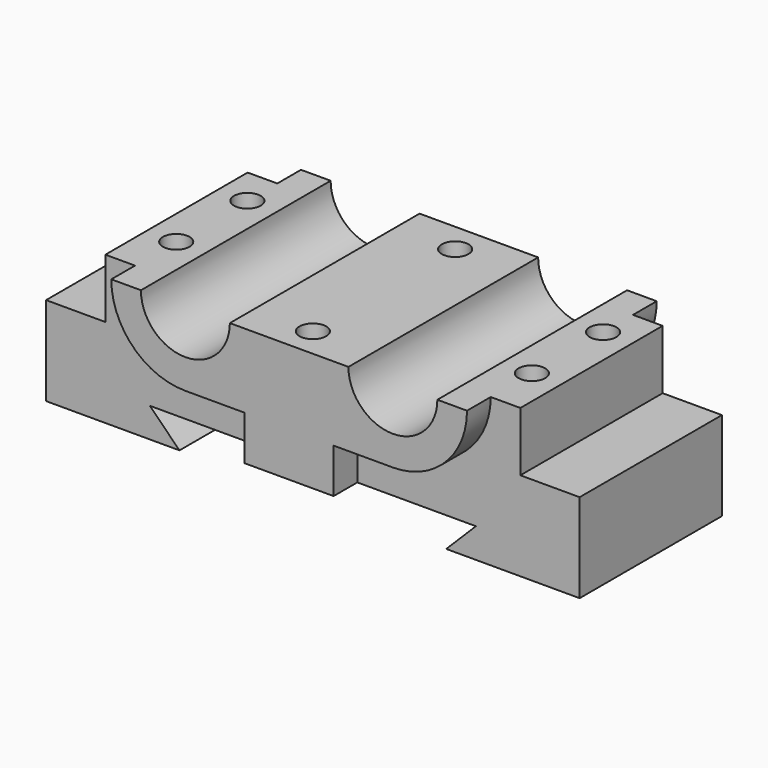
from build123d import *

# Parameters (mm, degrees)
F1_DEPTH = 15
F3_DEPTH = 5
F6_D     = 4.5
F6_DEPTH = 15
F6_TIP   = 1.3519363928


with BuildPart() as f1:
    # F0 (on Front) → F1 (new body, symmetric)
    with BuildSketch(Plane.XZ):
        with BuildLine():
            Line((-45, 10), (-45, -5))
            Line((-45, -5), (-22.5, -5))
            Line((-22.5, -5), (-27.5, 0))
            Line((-27.5, 0), (27.5, 0))
            Line((27.5, 0), (22.5, -5))
            Line((22.5, -5), (45, -5))
            Line((45, -5), (45, 10))
            Line((45, 10), (35, 10))
            Line((35, 10), (35, 20))
            Line((35, 20), (25, 20))
            ThreePointArc((25, 20), (17.5, 12.5), (10, 20))
            Line((10, 20), (-10, 20))
            ThreePointArc((-10, 20), (-17.5, 12.5), (-25, 20))
            Line((-25, 20), (-35, 20))
            Line((-35, 20), (-35, 10))
            Line((-35, 10), (-45, 10))
        make_face()
    extrude(amount=F1_DEPTH, both=True)

    # F2 (on face) → F3 (join)
    with BuildSketch(Plane.XZ.offset(15)):
        with BuildLine():
            Line((-25, 20), (-30, 20))
            ThreePointArc((-30, 20), (-26.3388347648, 11.1611652352), (-17.5, 7.5))
            Line((-17.5, 7.5), (-7.5, 7.5))
            Line((-7.5, 7.5), (-7.5, 0))
            Line((-7.5, 0), (7.5, 0))
            Line((7.5, 0), (7.5, 7.5))
            Line((7.5, 7.5), (17.5, 7.5))
            ThreePointArc((17.5, 7.5), (26.3388347648, 11.1611652352), (30, 20))
            Line((30, 20), (25, 20))
            ThreePointArc((25, 20), (17.5, 12.5), (10, 20))
            Line((10, 20), (-10, 20))
            ThreePointArc((-10, 20), (-17.5, 12.5), (-25, 20))
        make_face()
    extrude(amount=F3_DEPTH)

    # F4: F1 across plane


with BuildPart() as f1_1:
    add(f1.part)
    add(f1.part.mirror(Plane.XZ))

    # F6
    with Locations(Plane.XY.offset(20)):
        with Locations((-30, 8.6871764955), (-30, -6.3128235045), (0, 15), (0, -15), (30, 8.6871764955), (30, -6.3128235045)):
            Hole(F6_D / 2, depth=F6_DEPTH)
            with Locations((0, 0, -(F6_DEPTH + F6_TIP / 2))):  # 118° drill point
                Cone(0, F6_D / 2, F6_TIP, mode=Mode.SUBTRACT)


solid = f1_1.part
